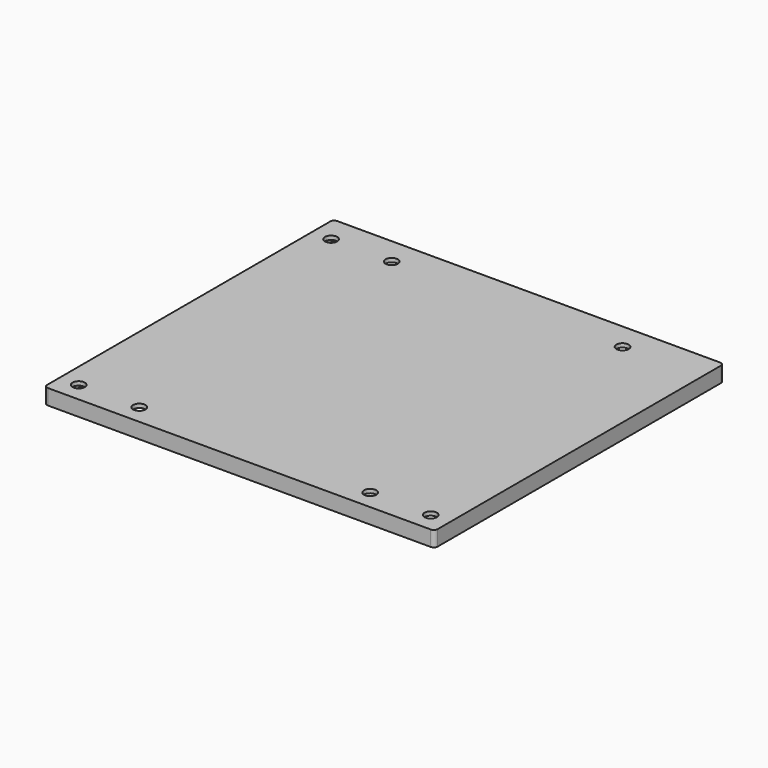
from build123d import *

# Parameters (mm, degrees)
PAD024_DEPTH    = 1
PAD025_DEPTH    = 3
SKETCH042_R     = 1.6
POCKET018_DEPTH = 5


with BuildPart() as part:
    # Sketch040 → Pad024 (new body)
    with BuildSketch(Plane.XY):
        with BuildLine():
            Line((-50.75, 46), (-50.75, -46))
            ThreePointArc((-50.75, -46), (-50.457107, -46.707107), (-49.75, -47))
            Line((-49.75, -47), (49.75, -47))
            ThreePointArc((49.75, -47), (50.457107, -46.707107), (50.75, -46))
            Line((50.75, -46), (50.75, 46))
            ThreePointArc((50.75, 46), (50.457107, 46.707107), (49.75, 47))
            Line((49.75, 47), (-49.75, 47))
            ThreePointArc((-49.75, 47), (-50.457107, 46.707107), (-50.75, 46))
        make_face()
    extrude(amount=PAD024_DEPTH)

    # Sketch041 → Pad025 (join)
    with BuildSketch(Plane.XY):
        with BuildLine():
            Line((-50.75, 46), (-50.75, -46))
            ThreePointArc((-50.75, -46), (-50.457107, -46.707107), (-49.75, -47))
            Line((-49.75, -47), (49.75, -47))
            ThreePointArc((49.75, -47), (50.457107, -46.707107), (50.75, -46))
            Line((50.75, -46), (50.75, 46))
            ThreePointArc((50.75, 46), (50.457107, 46.707107), (49.75, 47))
            Line((49.75, 47), (-49.75, 47))
            ThreePointArc((-49.75, 47), (-50.457107, 46.707107), (-50.75, 46))
        make_face()
        with BuildLine():
            Line((-49.75, 45), (-49.75, -45))
            ThreePointArc((-49.75, -45), (-49.457107, -45.707107), (-48.75, -46))
            Line((-48.75, -46), (48.75, -46))
            ThreePointArc((48.75, -46), (49.457107, -45.707107), (49.75, -45))
            Line((49.75, -45), (49.75, 45))
            ThreePointArc((49.75, 45), (49.457107, 45.707107), (48.75, 46))
            Line((48.75, 46), (-48.75, 46))
            ThreePointArc((-48.75, 46), (-49.457107, 45.707107), (-49.75, 45))
        make_face(mode=Mode.SUBTRACT)
    extrude(amount=-PAD025_DEPTH)

    # Sketch042 → Pocket018 (cut)
    with BuildSketch(Plane.XY):
        with Locations((-45.75, 40)):
            Circle(SKETCH042_R)
        with Locations((-30, 40)):
            Circle(SKETCH042_R)
        with Locations((30, 40)):
            Circle(SKETCH042_R)
        with Locations((-30, -42)):
            Circle(SKETCH042_R)
        with Locations((-45.75, -42)):
            Circle(SKETCH042_R)
        with Locations((30, -42)):
            Circle(SKETCH042_R)
        with Locations((45.75, -42)):
            Circle(SKETCH042_R)
    extrude(amount=POCKET018_DEPTH, mode=Mode.SUBTRACT)


with BuildPart() as part_1:
    # Body010 placement: moved
    add(part.part.moved(Location((0, 0, 36.1))))


solid = part_1.part
